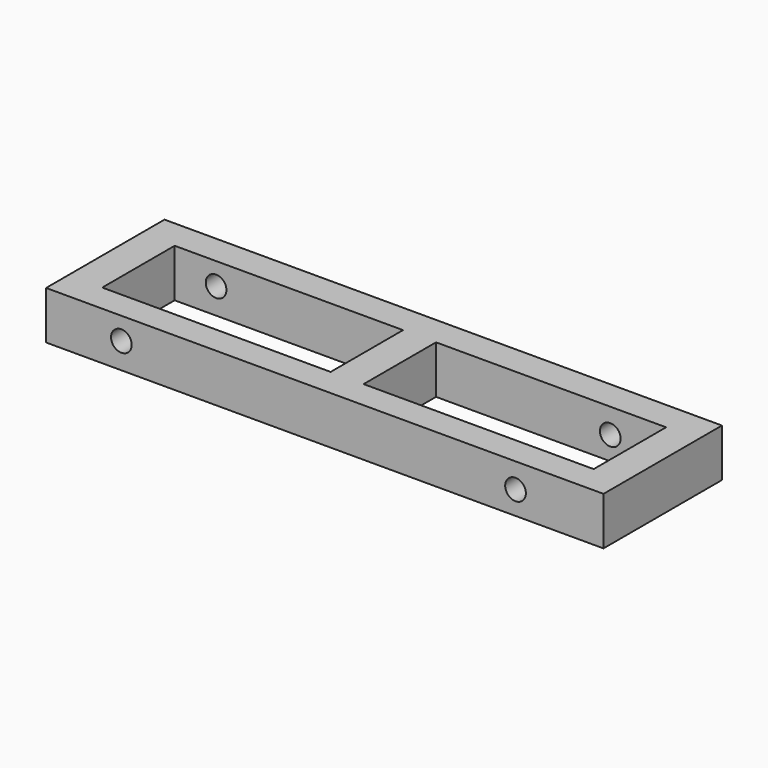
from build123d import *

# Parameters (mm, degrees)
F0_W     = 150.861204
F0_H     = 40.061776
F1_DEPTH = 13
F2_W     = 133.00509
F2_H     = 24.494914
F3_DEPTH = 25
F4_W     = 8.928052
F4_H     = 32.736194
F5_DEPTH = 13
F7_D     = 5.6


with BuildPart() as f1:
    # F0 (on Top) → F1 (new body)
    with BuildSketch(Plane.XY):
        Rectangle(F0_W, F0_H)
    extrude(amount=F1_DEPTH)

    # F2 (on face) → F3 (cut)
    with BuildSketch(Plane.XY.offset(13)):
        with Locations((0.228923, -0.228925)):
            Rectangle(F2_W, F2_H)
    extrude(amount=-F3_DEPTH, mode=Mode.SUBTRACT)

    # F4 (on face) → F5 (join)
    with BuildSketch(Plane.XY.offset(13)):
        Rectangle(F4_W, F4_H)
    extrude(amount=-F5_DEPTH)

    # F7 (through all)
    with Locations(Plane(origin=(0, 20.030888, 0), x_dir=(-1, 0, 0), z_dir=(0, 1, 0))):
        with Locations((55.056326, 6.982195), (-51.622458, 6.295422)):
            Hole(F7_D / 2)


solid = f1.part
